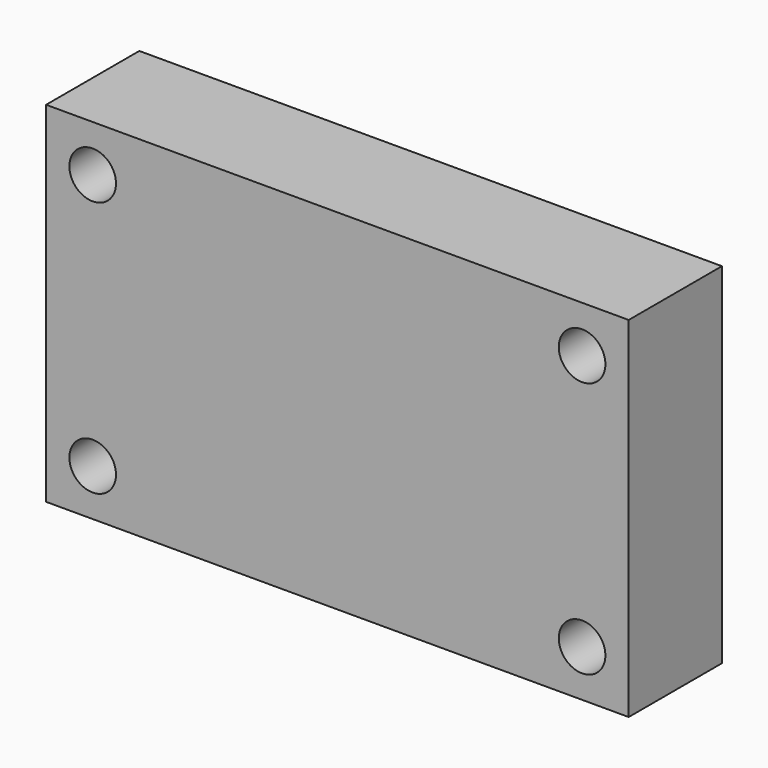
from build123d import *

# Parameters (mm, degrees)
F0_W     = 25
F0_H     = 15
F0_R     = 1
F0_R_2   = 2
F0_R_3   = 0.5
F1_DEPTH = 5
F2_DEPTH = 3


with BuildPart() as f1:
    # F0 (on Front) → F1 (new body)
    with BuildSketch(Plane.XZ):
        Rectangle(F0_W, F0_H)
        with Locations((-10.5, -5.5)):
            Circle(F0_R, mode=Mode.SUBTRACT)
        with Locations((10.5, -5.5)):
            Circle(F0_R, mode=Mode.SUBTRACT)
        with Locations((-7, 0)):
            Circle(F0_R_2, mode=Mode.SUBTRACT)
        with Locations((-10.5, 5.5)):
            Circle(F0_R, mode=Mode.SUBTRACT)
        with BuildLine():
            ThreePointArc((6, 0), (4, -2), (2, 0))
            ThreePointArc((2, 0), (4, 2), (6, 0))
        make_face(mode=Mode.SUBTRACT)
        with Locations((10.5, 5.5)):
            Circle(F0_R, mode=Mode.SUBTRACT)
        with Locations((-7, 0)):
            Circle(F0_R_2)
        with Locations((-7, 0)):
            Circle(F0_R_3, mode=Mode.SUBTRACT)
        with BuildLine():
            ThreePointArc((6, 0), (4, 2), (2, 0))
            ThreePointArc((2, 0), (4, -2), (6, 0))
        make_face()
        with BuildLine():
            ThreePointArc((4.5, 0), (4, -0.5), (3.5, 0))
            ThreePointArc((3.5, 0), (4, 0.5), (4.5, 0))
        make_face(mode=Mode.SUBTRACT)
        with Locations((-7, 0)):
            Circle(F0_R_3)
        with BuildLine():
            ThreePointArc((4.5, 0), (4, 0.5), (3.5, 0))
            ThreePointArc((3.5, 0), (4, -0.5), (4.5, 0))
        make_face()
    extrude(amount=F1_DEPTH)

    # F0 (on Front) → F2 (cut)
    with BuildSketch(Plane.XZ):
        with Locations((-7, 0)):
            Circle(F0_R_2)
        with Locations((-7, 0)):
            Circle(F0_R_3, mode=Mode.SUBTRACT)
        with BuildLine():
            ThreePointArc((6, 0), (4, 2), (2, 0))
            ThreePointArc((2, 0), (4, -2), (6, 0))
        make_face()
        with BuildLine():
            ThreePointArc((4.5, 0), (4, -0.5), (3.5, 0))
            ThreePointArc((3.5, 0), (4, 0.5), (4.5, 0))
        make_face(mode=Mode.SUBTRACT)
        with BuildLine():
            ThreePointArc((4.5, 0), (4, 0.5), (3.5, 0))
            ThreePointArc((3.5, 0), (4, -0.5), (4.5, 0))
        make_face()
        with Locations((-7, 0)):
            Circle(F0_R_3)
    extrude(amount=F2_DEPTH, mode=Mode.SUBTRACT)


solid = f1.part
